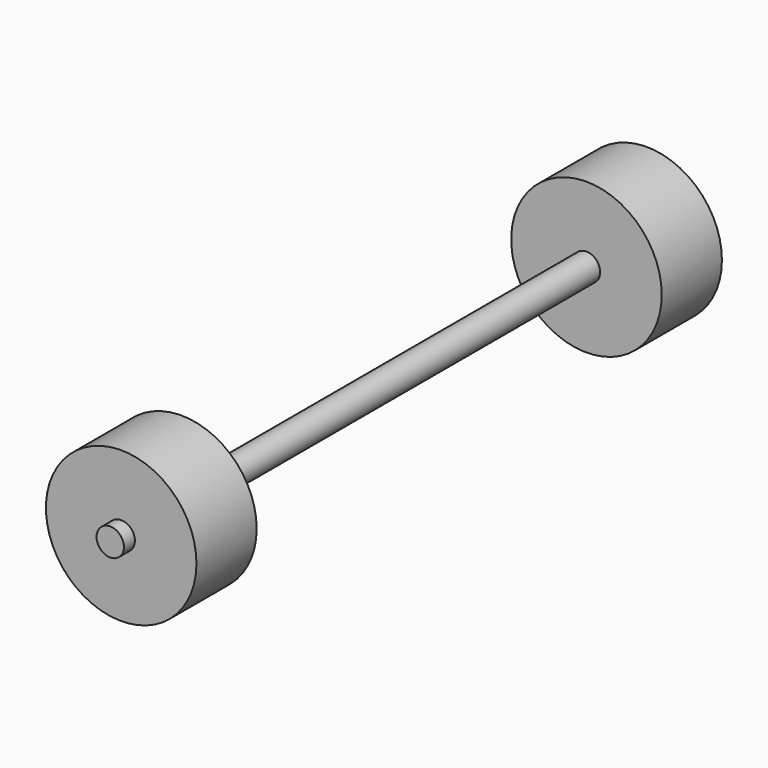
from build123d import *

# Parameters (mm, degrees)
CYLINDER002001001002_R             = 11
CYLINDER002001001002_DEPTH         = 11
CYLINDER002001001002_ROLL_ANGLE    = 90
CYLINDER002001001002001_R          = 11
CYLINDER002001001002001_DEPTH      = 11
CYLINDER002001001002001_ROLL_ANGLE = 90
CYLINDER002001002001_R             = 2
CYLINDER002001002001_DEPTH         = 100
CYLINDER002001002001_ROLL_ANGLE    = -90


with BuildPart() as wheel006:
    # Cylinder002001001002 → Cylinder002001001002 (new body)
    with BuildSketch(Plane.XY):
        Circle(CYLINDER002001001002_R)
    extrude(amount=CYLINDER002001001002_DEPTH)


with BuildPart() as wheel006_1:
    # Cylinder002001001002 roll: moved
    add(wheel006.part.rotate(Axis((0, 0, 0), (1, 0, 0)), CYLINDER002001001002_ROLL_ANGLE))


with BuildPart() as wheel006_2:
    # Cylinder002001001002 placement: moved
    add(wheel006_1.part.moved(Location((20, 78, 14))))


with BuildPart() as wheel007:
    # Cylinder002001001002001 → Cylinder002001001002001 (new body)
    with BuildSketch(Plane.XY):
        Circle(CYLINDER002001001002001_R)
    extrude(amount=CYLINDER002001001002001_DEPTH)


with BuildPart() as wheel007_1:
    # Cylinder002001001002001 roll: moved
    add(wheel007.part.rotate(Axis((0, 0, 0), (1, 0, 0)), CYLINDER002001001002001_ROLL_ANGLE))


with BuildPart() as wheel007_2:
    # Cylinder002001001002001 placement: moved
    add(wheel007_1.part.moved(Location((20, -7, 14))))


with BuildPart() as obj1:
    # Cylinder002001002001 → Cylinder002001002001 (new body)
    with BuildSketch(Plane.XY):
        Circle(CYLINDER002001002001_R)
    extrude(amount=CYLINDER002001002001_DEPTH)


with BuildPart() as obj1_1:
    # Cylinder002001002001 roll: moved
    add(obj1.part.rotate(Axis((0, 0, 0), (1, 0, 0)), CYLINDER002001002001_ROLL_ANGLE))


with BuildPart() as obj1_2:
    # Cylinder002001002001 placement: moved
    add(obj1_1.part.moved(Location((20, -20, 14))))

    # Fusion002001002002002001001: union Wheel006, Wheel007
    add(wheel006_2.part)
    add(wheel007_2.part)


with BuildPart() as obj1_3:
    # Fusion002001002002002001001 placement: moved
    add(obj1_2.part.moved(Location((88.5, 0, -24))))


solid = obj1_3.part
